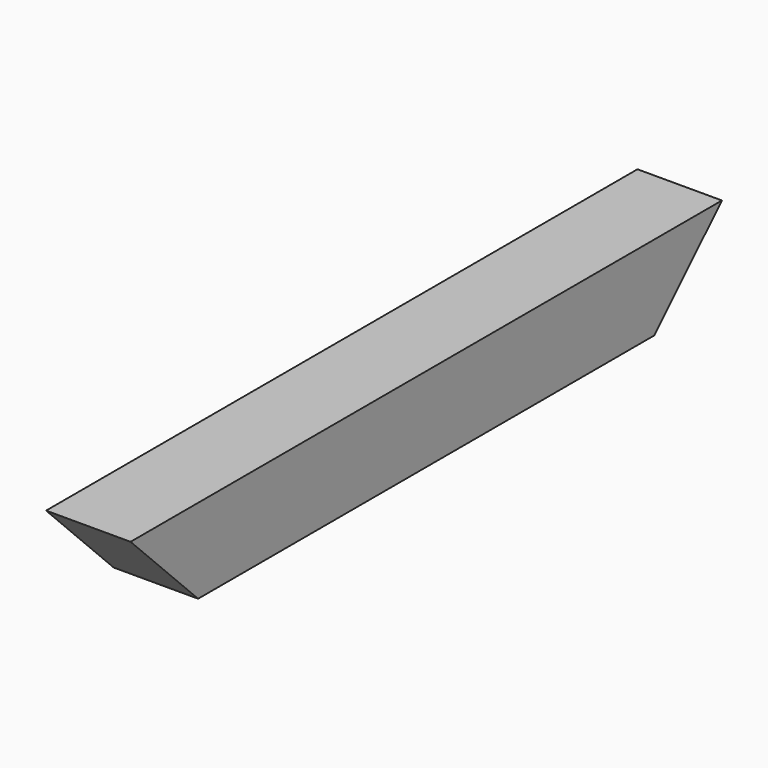
from build123d import *

# Parameters (mm, degrees)
F0_W     = 101.6
F0_H     = 101.6
F1_DEPTH = 444.5508
F3_DEPTH = 101.601


with BuildPart() as f1:
    # F0 (on Front) → F1 (new body, symmetric)
    with BuildSketch(Plane.XZ):
        Rectangle(F0_W, F0_H)
    extrude(amount=F1_DEPTH, both=True)

    # F2 (on face) → F3 (cut, through all)
    with BuildSketch(Plane.YZ.offset(50.8)):
        Polygon((-444.5508, 50.8), (-444.5508, -50.8), (-342.9508, -50.8), align=None)
        Polygon((444.5508, -50.8), (444.5508, 50.8), (342.9508, -50.8), align=None)
    extrude(amount=-F3_DEPTH, mode=Mode.SUBTRACT)


solid = f1.part
